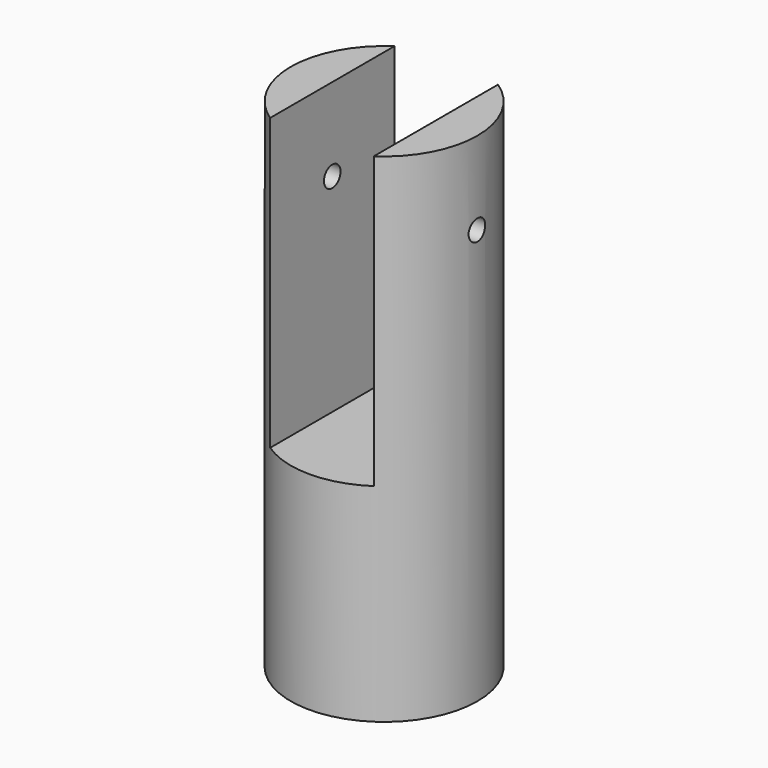
from build123d import *

# Parameters (mm, degrees)
F0_R     = 22.5
F1_DEPTH = 120
F3_DEPTH = 70
F4_R     = 20
F5_DEPTH = 35
F8_D     = 5


with BuildPart() as f1:
    # F0 (on Top) → F1 (new body)
    with BuildSketch(Plane.XY):
        Circle(F0_R)
    extrude(amount=F1_DEPTH)

    # F2 (on face) → F3 (cut)
    with BuildSketch(Plane.XY.offset(120)):
        with BuildLine():
            ThreePointArc((12.5, 18.708287), (0, 22.5), (-12.5, 18.708287))
            Line((-12.5, 18.708287), (-12.5, -18.708287))
            ThreePointArc((-12.5, -18.708287), (0, -22.5), (12.5, -18.708287))
            Line((12.5, -18.708287), (12.5, 18.708287))
        make_face()
    extrude(amount=-F3_DEPTH, mode=Mode.SUBTRACT)

    # F4 (on face) → F5 (cut)
    with BuildSketch(Plane.XY):
        Circle(F4_R)
    extrude(amount=F5_DEPTH, mode=Mode.SUBTRACT)

    # F8 (through all)
    with Locations(Plane.YZ.offset(22.5)):
        with Locations((0, 100)):
            Hole(F8_D / 2)


solid = f1.part
